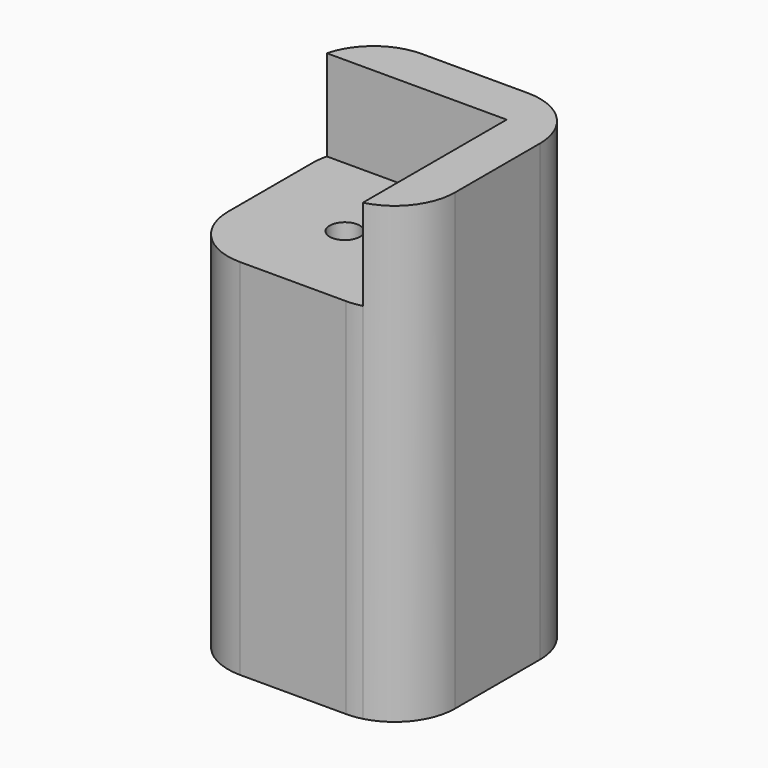
from build123d import *

# Parameters (mm, degrees)
F1_DEPTH       = 95.25
F2_DEPTH       = 19.05
F5_DEPTH       = 69.85
F7_D           = 6.35
F7_DEPTH       = 25.4
F7_CBORE_D     = 6.35
F7_CBORE_DEPTH = 6.35
F9_ANGLE       = 180


with BuildPart() as f1:
    # F0 (on Top) → F1 (new body)
    with BuildSketch(Plane.XY):
        with BuildLine():
            Line((-14.2875, -14.2875), (-14.2875, 23.409222))
            ThreePointArc((-14.2875, 23.409222), (-21.152732, 18.88963), (-23.8125, 11.1125))
            Line((-23.8125, 11.1125), (-23.8125, -11.1125))
            ThreePointArc((-23.8125, -11.1125), (-20.092756, -20.092756), (-11.1125, -23.8125))
            Line((-11.1125, -23.8125), (11.1125, -23.8125))
            ThreePointArc((11.1125, -23.8125), (18.88963, -21.152732), (23.409222, -14.2875))
            Line((23.409222, -14.2875), (-14.2875, -14.2875))
        make_face()
        with BuildLine():
            Line((11.1125, 23.8125), (-11.1125, 23.8125))
            ThreePointArc((-11.1125, 23.8125), (-12.712755, 23.711277), (-14.2875, 23.409222))
            Line((-14.2875, 23.409222), (-14.2875, -14.2875))
            Line((-14.2875, -14.2875), (23.409222, -14.2875))
            ThreePointArc((23.409222, -14.2875), (23.711277, -12.712755), (23.8125, -11.1125))
            Line((23.8125, -11.1125), (23.8125, 11.1125))
            ThreePointArc((23.8125, 11.1125), (20.092756, 20.092756), (11.1125, 23.8125))
        make_face()
    extrude(amount=-F1_DEPTH)

    # F0 (on Top) → F2 (cut)
    with BuildSketch(Plane.XY):
        with BuildLine():
            Line((11.1125, 23.8125), (-11.1125, 23.8125))
            ThreePointArc((-11.1125, 23.8125), (-12.712755, 23.711277), (-14.2875, 23.409222))
            Line((-14.2875, 23.409222), (-14.2875, -14.2875))
            Line((-14.2875, -14.2875), (23.409222, -14.2875))
            ThreePointArc((23.409222, -14.2875), (23.711277, -12.712755), (23.8125, -11.1125))
            Line((23.8125, -11.1125), (23.8125, 11.1125))
            ThreePointArc((23.8125, 11.1125), (20.092756, 20.092756), (11.1125, 23.8125))
        make_face()
    extrude(amount=-F2_DEPTH, mode=Mode.SUBTRACT)

    # F3 (on face) → F5 (cut, through all)
    with BuildSketch(Plane(origin=(0, 0, -95.25), x_dir=(1, 0, 0), z_dir=(0, 0, -1))):
        with BuildLine():
            Line((17.4625, -11.1125), (17.4625, 11.1125))
            ThreePointArc((17.4625, 11.1125), (15.602628, 15.602628), (11.1125, 17.4625))
            Line((11.1125, 17.4625), (-11.1125, 17.4625))
            ThreePointArc((-11.1125, 17.4625), (-15.602628, 15.602628), (-17.4625, 11.1125))
            Line((-17.4625, 11.1125), (-17.4625, -11.1125))
            ThreePointArc((-17.4625, -11.1125), (-15.602628, -15.602628), (-11.1125, -17.4625))
            Line((-11.1125, -17.4625), (11.1125, -17.4625))
            ThreePointArc((11.1125, -17.4625), (15.602628, -15.602628), (17.4625, -11.1125))
        make_face()
    extrude(amount=-F5_DEPTH, mode=Mode.SUBTRACT)

    # F7
    with Locations(Plane.XY.offset(-19.05)):
        with Locations((4.560861, 4.560861)):
            CounterBoreHole(F7_D / 2, F7_CBORE_D / 2, F7_CBORE_DEPTH, depth=F7_DEPTH)


with BuildPart() as f1_1:
    # F9: moved
    add(f1.part.rotate(Axis((0, 0, 6.654953), (0, 0, 1)), F9_ANGLE))


solid = f1_1.part
